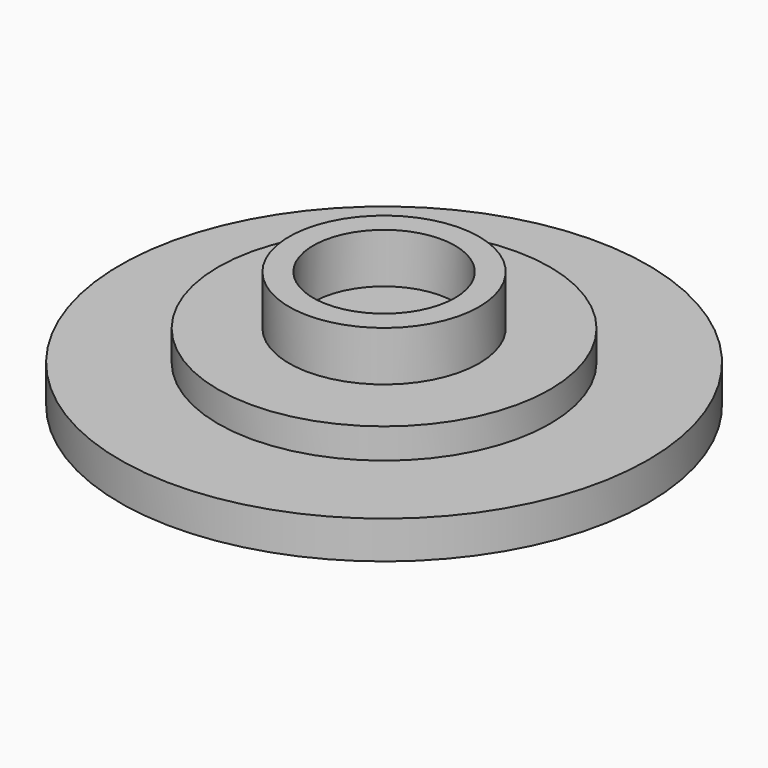
from build123d import *

# Parameters (mm, degrees)
F0_R     = 11.1125
F1_DEPTH = 1.5875
F2_R     = 6.985
F3_DEPTH = 1.27
F4_R     = 4.0005
F4_R_2   = 2.9845
F5_DEPTH = 2.0955


with BuildPart() as f1:
    # F0 (on Top) → F1 (new body)
    with BuildSketch(Plane.XY):
        Circle(F0_R)
    extrude(amount=F1_DEPTH)

    # F2 (on face) → F3 (join)
    with BuildSketch(Plane.XY.offset(1.5875)):
        Circle(F2_R)
    extrude(amount=F3_DEPTH)

    # F4 (on face) → F5 (join)
    with BuildSketch(Plane.XY.offset(2.8575)):
        Circle(F4_R)
        Circle(F4_R_2, mode=Mode.SUBTRACT)
    extrude(amount=F5_DEPTH)


solid = f1.part
